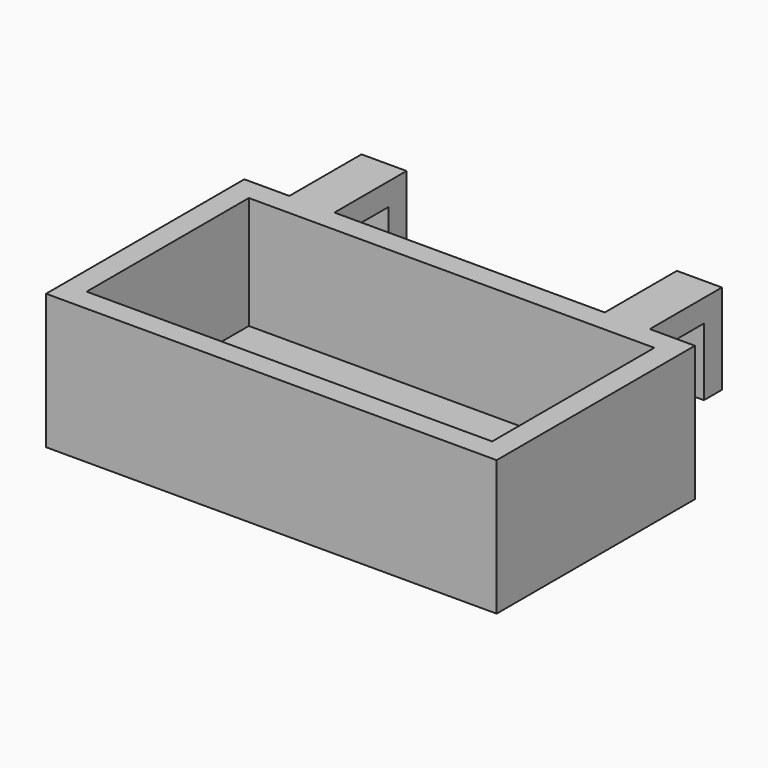
from build123d import *

# Parameters (mm, degrees)
F0_W     = 90
F0_H     = 45
F1_DEPTH = 5
F0_W_2   = 99.999998
F0_H_2   = 54.999998
F2_DEPTH = 30
F3_W     = 10
F3_H     = 15
F3_H_2   = 5
F4_DEPTH = 5
F5_DEPTH = 20
F6_W     = 10
F6_H     = 5
F7_DEPTH = 10


with BuildPart() as f1:
    # F0 (on Top) → F1 (new body)
    with BuildSketch(Plane.XY):
        with Locations((-45, 22.5)):
            Rectangle(F0_W, F0_H)
    extrude(amount=F1_DEPTH)

    # F0 (on Top) → F2 (join)
    with BuildSketch(Plane.XY):
        with Locations((-45, 22.5)):
            Rectangle(F0_W_2, F0_H_2)
        with Locations((-45, 22.5)):
            Rectangle(F0_W, F0_H, mode=Mode.SUBTRACT)
    extrude(amount=F2_DEPTH)

    # F3 (on face) → F4 (join)
    with BuildSketch(Plane.XY.offset(30)):
        with Locations((-79.999999, 57.499999)):
            Rectangle(F3_W, F3_H)
        with Locations((-79.999999, 67.499999)):
            Rectangle(F3_W, F3_H_2)
        with Locations((-10.000001, 57.499999)):
            Rectangle(F3_W, F3_H)
        with Locations((-10.000001, 67.499999)):
            Rectangle(F3_W, F3_H_2)
    extrude(amount=-F4_DEPTH)

    # F3 (on face) → F5 (join)
    with BuildSketch(Plane.XY.offset(30)):
        with Locations((-79.999999, 67.499999)):
            Rectangle(F3_W, F3_H_2)
        with Locations((-10.000001, 67.499999)):
            Rectangle(F3_W, F3_H_2)
    extrude(amount=-F5_DEPTH)

    # F6 (on face) → F7 (join)
    with BuildSketch(Plane(origin=(0, 49.999999, 0), x_dir=(-1, 0, 0), z_dir=(0, 1, 0))):
        with Locations((10.000001, 12.5)):
            Rectangle(F6_W, F6_H)
        with Locations((79.999999, 12.5)):
            Rectangle(F6_W, F6_H)
    extrude(amount=F7_DEPTH)


solid = f1.part
